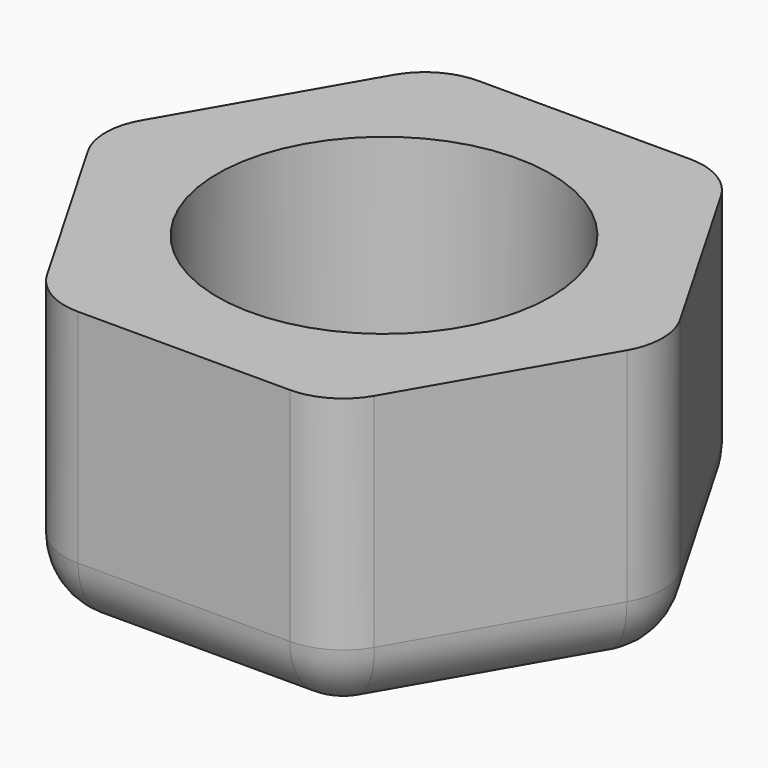
from build123d import *

# Parameters (mm, degrees)
F0_R     = 7.9375
F1_DEPTH = 13.716
F2_R     = 3.175


with BuildPart() as f1:
    # F0 (on Top) → F1 (new body)
    with BuildSketch(Plane.XY):
        Polygon((6.874077, 11.90625), (-6.874077, 11.90625), (-13.748153, 0), (-6.874077, -11.90625), (6.874077, -11.90625), (13.748153, 0), align=None)
        Circle(F0_R, mode=Mode.SUBTRACT)
    extrude(amount=F1_DEPTH)

    # F2
    f2_edges = [f1.edges().sort_by_distance(p)[0] for p in [
        (-13.748153, 0, 6.858),
        (10.311115, -5.953125, 0),
        (13.748153, 0, 6.858),
        (6.874077, -11.90625, 6.858),
        (-6.874077, -11.90625, 6.858),
        (6.874077, 11.90625, 6.858),
        (-6.874077, 11.90625, 6.858),
        (0, -11.90625, 0),
        (-10.311115, -5.953125, 0),
        (-10.311115, 5.953125, 0),
        (0, 11.90625, 0),
        (10.311115, 5.953125, 0),
    ]]
    fillet(f2_edges, radius=F2_R)


solid = f1.part
